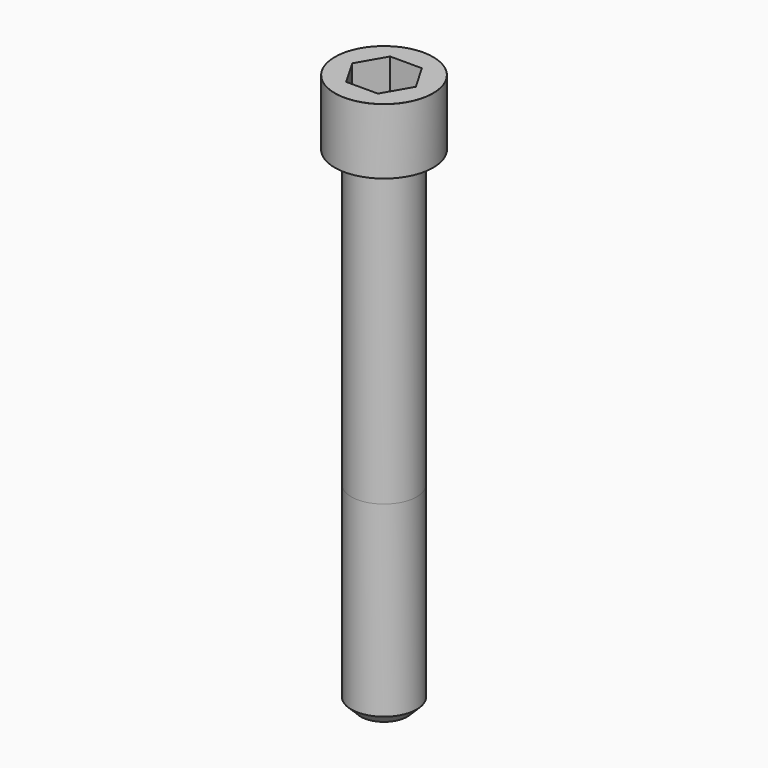
from build123d import *

# Parameters (mm, degrees)
POCKET_DEPTH = 10.07


with BuildPart() as part:
    # Sketch → Revolve (revolve)
    with BuildSketch(Plane.YZ):
        with BuildLine():
            Line((5.999, 0), (9, 0))
            Line((9, 0), (9, 11.97229))
            ThreePointArc((9, 11.97229), (8.991884, 11.991884), (8.97229, 12))
            Line((8.97229, 12), (0, 12))
            Line((0, -90), (0, 12))
            Line((4.25, -90), (0, -90))
            Line((6, -88.25), (4.25, -90))
            Line((6, -54), (6, -88.25))
            Line((5.999, 0), (6, -54))
        make_face()
    revolve(axis=Axis((0, 0, 0), (0, 0, 1)))

    # Sketch001 → Pocket (cut)
    with BuildSketch(Plane.XY.offset(12)):
        Polygon((5.813917, 0), (2.906959, 5.035), (-2.906959, 5.035), (-5.813917, 0), (-2.906959, -5.035), (2.906959, -5.035), align=None)
    extrude(amount=-POCKET_DEPTH, mode=Mode.SUBTRACT)


solid = part.part
